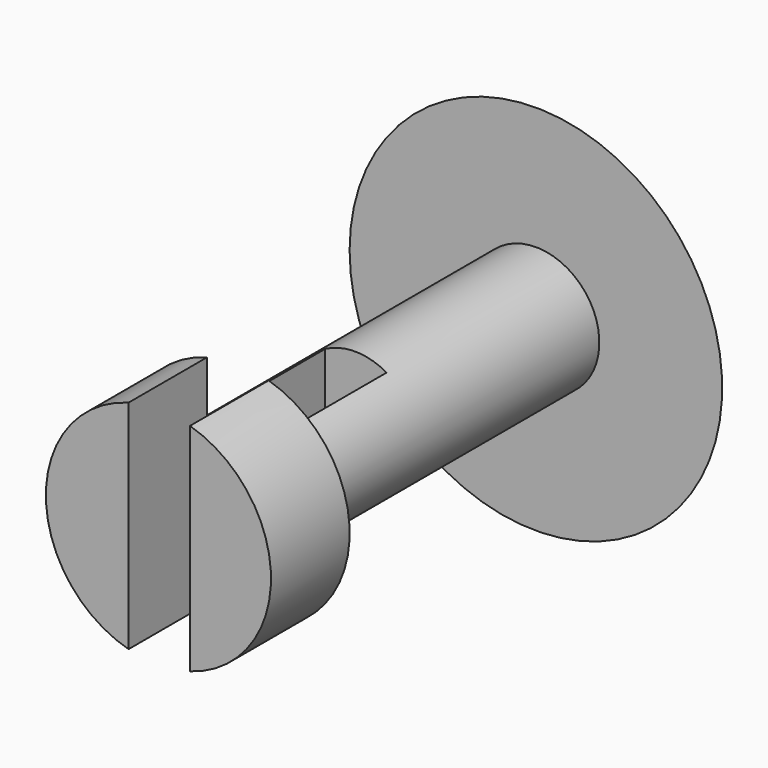
from build123d import *

# Parameters (mm, degrees)
F4_W     = 3.175
F4_H     = 12.7
F5_DEPTH = 12.7


with BuildPart() as f2:
    # F0 (on Top) → F2 (revolve)
    with BuildSketch(Plane.XY):
        with BuildLine():
            Line((-35.4254181015, 31.2067266416), (-29.0754181015, 31.2067266416))
            Line((-29.0754181015, 31.2067266416), (-29.0754181015, 11.9027266416))
            Line((-29.0754181015, 11.9027266416), (-31.6154181015, 11.9027266416))
            Line((-31.6154181015, 11.9027266416), (-31.6154181015, 6.8227266416))
            Line((-31.6154181015, 6.8227266416), (-25.9004181015, 6.8227266416))
            Line((-25.9004181015, 6.8227266416), (-25.9004181015, 20.6251591444))
            Line((-25.9004181015, 20.6251591444), (-25.9004181015, 34.9045594707))
            add(Edge.make_bspline(
                [(-35.4254181015, 31.2067266416), (-32.3843405864, 32.9409682845), (-29.3432630713, 34.6752099275), (-25.9004181015, 34.9045594707)],
                knots=[0, 0, 0, 0, 0.3470016692, 0.3470016692, 0.3470016692, 0.3470016692], degree=3))
        make_face()
    revolve(axis=Axis((-25.7974471897, 17.4531694502, 0), (0, -1, 0)))

    # F4 (on face) → F5 (cut)
    with BuildSketch(Plane.XZ.offset(-6.8227266416)):
        with Locations((-25.7551228888, 0)):
            Rectangle(F4_W, F4_H)
    extrude(amount=-F5_DEPTH, mode=Mode.SUBTRACT)


solid = f2.part
